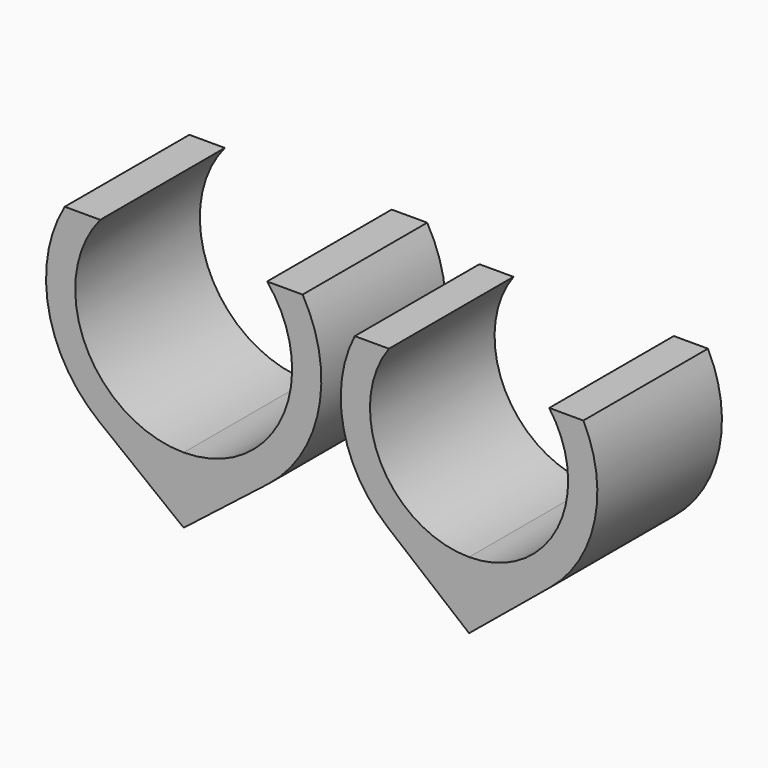
from build123d import *


with BuildPart() as f3:
    # F3: sweep along a path in F2
    with BuildLine(Plane.XY) as f3_path:
        Line((0, 0), (0, 8))
    # F0 (on Front) → F3 (sweep)
    with BuildSketch(Plane.XZ):
        with BuildLine():
            Line((-4.285226, 12.532283), (-6.109268, 12.532283))
            ThreePointArc((-6.109268, 12.532283), (-6.942854, 7.639157), (-4.354308, 3.40395))
            Line((-4.354308, 3.40395), (0, 3.40395))
            ThreePointArc((0, 3.40395), (-5.042064, 6.606992), (-4.285226, 12.532283))
        make_face()
        with BuildLine():
            Line((0, 3.40395), (0, 1.90395))
            ThreePointArc((0, 1.90395), (2.302716, 2.28946), (4.354308, 3.40395))
            Line((4.354308, 3.40395), (0, 3.40395))
        make_face()
        with BuildLine():
            ThreePointArc((0, 1.90395), (-2.302716, 2.28946), (-4.354308, 3.40395))
            Line((-4.354308, 3.40395), (0, 0))
            Line((0, 0), (0, 1.90395))
        make_face()
        with BuildLine():
            ThreePointArc((4.354308, 3.40395), (2.302716, 2.28946), (0, 1.90395))
            Line((0, 1.90395), (0, 0))
            Line((0, 0), (4.354308, 3.40395))
        make_face()
        with BuildLine():
            Line((0, 3.40395), (-4.354308, 3.40395))
            ThreePointArc((-4.354308, 3.40395), (-2.302716, 2.28946), (0, 1.90395))
            Line((0, 1.90395), (0, 3.40395))
        make_face()
        with BuildLine():
            ThreePointArc((4.285226, 12.532283), (5.042064, 6.606992), (0, 3.40395))
            Line((0, 3.40395), (4.354308, 3.40395))
            ThreePointArc((4.354308, 3.40395), (6.942854, 7.639157), (6.109268, 12.532283))
            Line((6.109268, 12.532283), (4.285226, 12.532283))
        make_face()
    sweep(path=f3_path.line)


with BuildPart() as f4:
    # F4: sweep along a path in F2
    with BuildLine(Plane.XY) as f4_path:
        Line((14.658908, 0), (14.658908, 8))
    # F0 (on Front) → F4 (sweep)
    with BuildSketch(Plane.XZ):
        with BuildLine():
            Line((10.542163, 11.525456), (8.787998, 11.525456))
            ThreePointArc((8.787998, 11.525456), (8.207614, 7.187085), (10.473218, 3.442043))
            Line((10.473218, 3.442043), (14.658908, 3.442043))
            ThreePointArc((14.658908, 3.442043), (10.123239, 6.222105), (10.542163, 11.525456))
        make_face()
        with BuildLine():
            Line((14.658908, 3.442043), (14.658908, 1.942043))
            ThreePointArc((14.658908, 1.942043), (16.882081, 2.328367), (18.844597, 3.442043))
            Line((18.844597, 3.442043), (14.658908, 3.442043))
        make_face()
        with BuildLine():
            ThreePointArc((14.658908, 1.942043), (12.435734, 2.328367), (10.473218, 3.442043))
            Line((10.473218, 3.442043), (14.658908, 0))
            Line((14.658908, 0), (14.658908, 1.942043))
        make_face()
        with BuildLine():
            ThreePointArc((18.844597, 3.442043), (16.882081, 2.328367), (14.658908, 1.942043))
            Line((14.658908, 1.942043), (14.658908, 0))
            Line((14.658908, 0), (18.844597, 3.442043))
        make_face()
        with BuildLine():
            Line((14.658908, 3.442043), (10.473218, 3.442043))
            ThreePointArc((10.473218, 3.442043), (12.435734, 2.328367), (14.658908, 1.942043))
            Line((14.658908, 1.942043), (14.658908, 3.442043))
        make_face()
        with BuildLine():
            ThreePointArc((18.775652, 11.525456), (19.194576, 6.222105), (14.658908, 3.442043))
            Line((14.658908, 3.442043), (18.844597, 3.442043))
            ThreePointArc((18.844597, 3.442043), (21.110201, 7.187085), (20.529817, 11.525456))
            Line((20.529817, 11.525456), (18.775652, 11.525456))
        make_face()
    sweep(path=f4_path.line)


solid = Compound([f3.part, f4.part])
